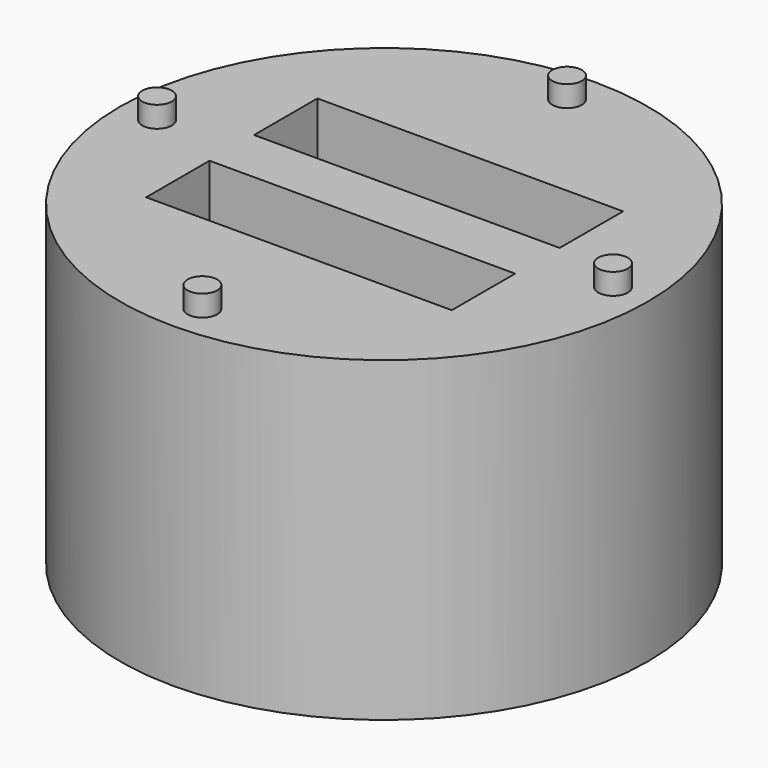
from build123d import *

# Parameters (mm, degrees)
F0_R     = 15.875
F1_DEPTH = 19.05
F6_W     = 18.382654
F6_H     = 4.7625
F7_DEPTH = 19.05
F3_R     = 0.889
F8_DEPTH = 20.32


with BuildPart() as f1:
    # F0 (on Top) → F1 (new body)
    with BuildSketch(Plane.XY):
        Circle(F0_R)
    extrude(amount=F1_DEPTH)

    # F6 (on face) → F7 (cut)
    with BuildSketch(Plane.XY.offset(19.05)):
        with Locations((0.03649, 4.055353)):
            Rectangle(F6_W, F6_H)
        with Locations((0.03649, -4.055353)):
            Rectangle(F6_W, F6_H)
    extrude(amount=-F7_DEPTH, mode=Mode.SUBTRACT)

    # F3 (on face) → F8 (join)
    with BuildSketch(Plane(origin=(0, 0, 0), x_dir=(1, 0, 0), z_dir=(0, 0, -1))):
        with Locations((0, 13.652203)):
            Circle(F3_R)
        with Locations((-13.659894, -0.015021)):
            Circle(F3_R)
        with Locations((0.062219, -13.682245)):
            Circle(F3_R)
        with Locations((13.674476, -0.124876)):
            Circle(F3_R)
    extrude(amount=-F8_DEPTH)


solid = f1.part
